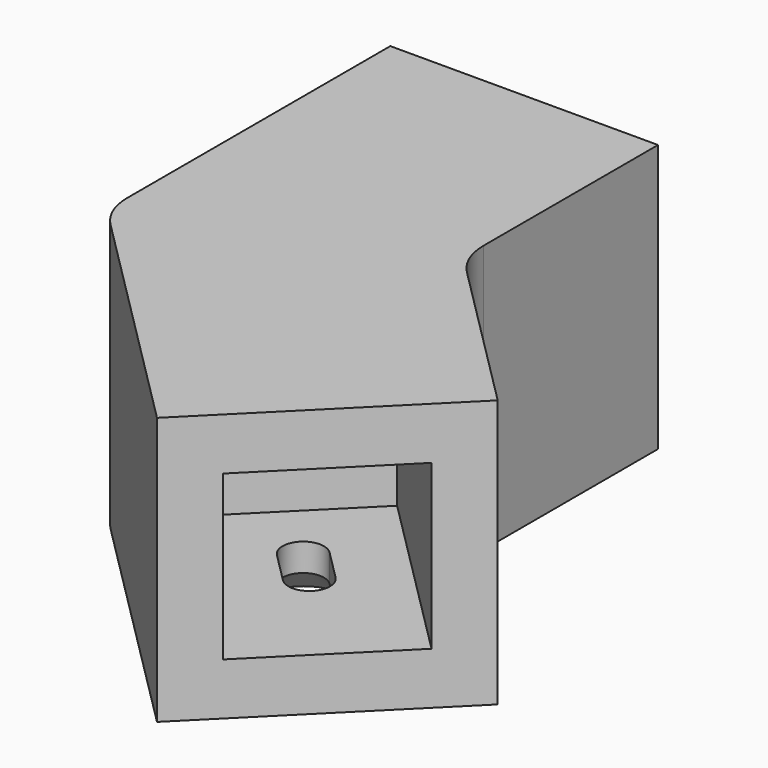
from build123d import *

# Parameters (mm, degrees)
PAD_DEPTH       = 22
SKETCH001_W     = 13.45
SKETCH001_H     = 13.45
POCKET_DEPTH    = 20
SKETCH002_W     = 13.45
SKETCH002_H     = 13.45
POCKET001_DEPTH = 20
POCKET002_DEPTH = 5
CHAMFER_SIZE    = 2
FILLET_R        = 5


with BuildPart() as part:
    # Sketch → Pad (new body)
    with BuildSketch(Plane.XY):
        Polygon((-11, 24.556349), (11, 24.556349), (11, 4.556349), (25.142136, -9.585786), (9.585786, -25.142136), (-11, -4.556349), align=None)
    extrude(amount=PAD_DEPTH)

    # Sketch001 (on Face4 of Pad) → Pocket (cut)
    with BuildSketch(Plane(origin=(17.363961, -17.363961, 0), x_dir=(0.707107, 0.707107, 0), z_dir=(0.707107, -0.707107, 0))):
        with Locations((0, 11)):
            Rectangle(SKETCH001_W, SKETCH001_H)
    extrude(amount=-POCKET_DEPTH, mode=Mode.SUBTRACT)

    # Sketch002 (on Face1 of Pocket) → Pocket001 (cut)
    with BuildSketch(Plane(origin=(0, 24.556349, 0), x_dir=(-1, 0, 0), z_dir=(0, 1, 0))):
        with Locations((0, 11)):
            Rectangle(SKETCH002_W, SKETCH002_H)
    extrude(amount=-POCKET001_DEPTH, mode=Mode.SUBTRACT)

    # Sketch003 (on Face3 of Pocket001) → Pocket002 (cut)
    with BuildSketch(Plane(origin=(0, 0, 0), x_dir=(1, 0, 0), z_dir=(0, 0, -1))):
        with BuildLine():
            ThreePointArc((1.7, -10.528175), (0, -8.828175), (-1.7, -10.528175))
            Line((-1.7, -10.528175), (-1.7, -14.028175))
            ThreePointArc((-1.7, -14.028175), (0, -15.728175), (1.7, -14.028175))
            Line((1.7, -10.528175), (1.7, -14.028175))
        make_face()
        with BuildLine():
            Line((8.717336, 11.121499), (6.242462, 8.646625))
            ThreePointArc((6.242462, 8.646625), (6.242462, 6.242462), (8.646625, 6.242462))
            Line((11.121499, 8.717336), (8.646625, 6.242462))
            ThreePointArc((11.121499, 8.717336), (11.121499, 11.121499), (8.717336, 11.121499))
        make_face()
    extrude(amount=-POCKET002_DEPTH, mode=Mode.SUBTRACT)

    # Chamfer
    chamfer_edges = [part.edges().sort_by_distance(p)[0] for p in [
        (9.884062, -7.479899, 0),
        (11.121499, -11.121499, 0),
        (7.479899, -9.884062, 0),
        (6.242462, -6.242462, 0),
        (0, 8.828175, 0),
        (1.7, 12.278175, 0),
        (0, 15.728175, 0),
        (-1.7, 12.278175, 0),
    ]]
    chamfer(chamfer_edges, length=CHAMFER_SIZE)

    # Fillet
    fillet_edges = [part.edges().sort_by_distance(p)[0] for p in [
        (-11, -4.556349, 11),
        (11, 4.556349, 11),
    ]]
    fillet(fillet_edges, radius=FILLET_R)


solid = part.part
